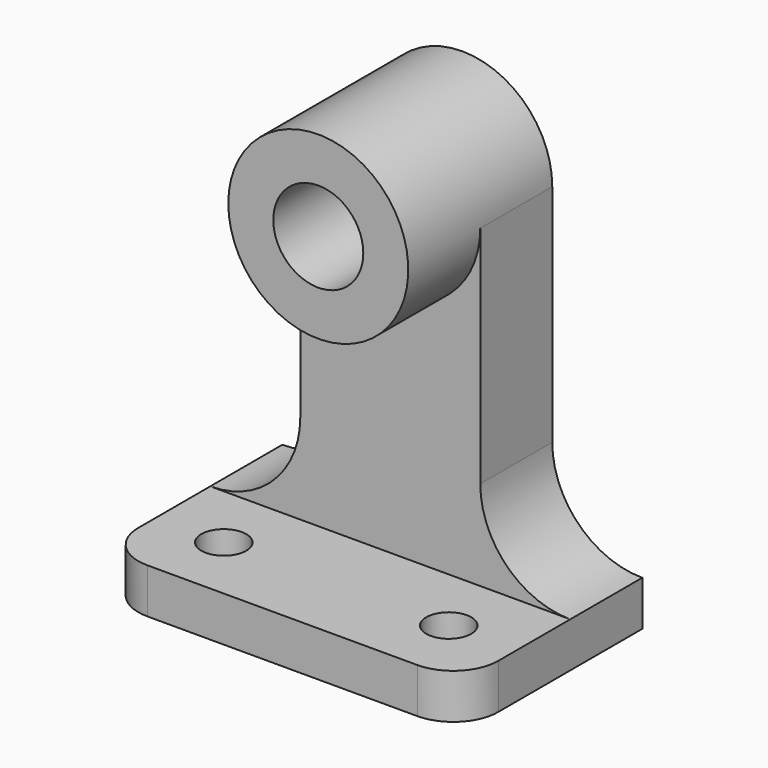
from build123d import *

# Parameters (mm, degrees)
F1_DEPTH = 25.4
F0_R     = 12.7
F2_DEPTH = 50.8
F0_W     = 101.6
F0_H     = 12.7
F3_DEPTH = 63.5
F4_R     = 6.35
F5_DEPTH = 12.7


with BuildPart() as f1:
    # F0 (on Front) → F1 (new body)
    with BuildSketch(Plane.XZ):
        with BuildLine():
            ThreePointArc((25.4, 40.525289), (0, 15.125289), (-25.4, 40.525289))
            Line((-25.4, 40.525289), (-25.4, -22.974711))
            ThreePointArc((-25.4, -22.974711), (-32.839488, -40.935223), (-50.8, -48.374711))
            Line((-50.8, -48.374711), (50.8, -48.374711))
            ThreePointArc((50.8, -48.374711), (32.839488, -40.935223), (25.4, -22.974711))
            Line((25.4, -22.974711), (25.4, 40.525289))
        make_face()
    extrude(amount=F1_DEPTH)

    # F0 (on Front) → F2 (join)
    with BuildSketch(Plane.XZ):
        with BuildLine():
            ThreePointArc((25.4, 40.525289), (0, 65.925289), (-25.4, 40.525289))
            ThreePointArc((-25.4, 40.525289), (0, 15.125289), (25.4, 40.525289))
        make_face()
        with Locations((0, 40.525289)):
            Circle(F0_R, mode=Mode.SUBTRACT)
    extrude(amount=F2_DEPTH)

    # F0 (on Front) → F3 (join)
    with BuildSketch(Plane.XZ):
        with Locations((0, -54.724711)):
            Rectangle(F0_W, F0_H)
    extrude(amount=F3_DEPTH)

    # F4 (on face) → F5 (cut)
    with BuildSketch(Plane.XY.offset(-48.374711)):
        with Locations((-31.75, -44.45)):
            Circle(F4_R)
        with BuildLine():
            Line((-50.8, -63.5), (-38.1, -63.5))
            ThreePointArc((-38.1, -63.5), (-47.080256, -59.780256), (-50.8, -50.8))
            Line((-50.8, -50.8), (-50.8, -63.5))
        make_face()
        with BuildLine():
            ThreePointArc((50.8, -50.8), (47.080256, -59.780256), (38.1, -63.5))
            Line((38.1, -63.5), (50.8, -63.5))
            Line((50.8, -63.5), (50.8, -50.8))
        make_face()
        with Locations((31.75, -44.45)):
            Circle(F4_R)
    extrude(amount=-F5_DEPTH, mode=Mode.SUBTRACT)


solid = f1.part
